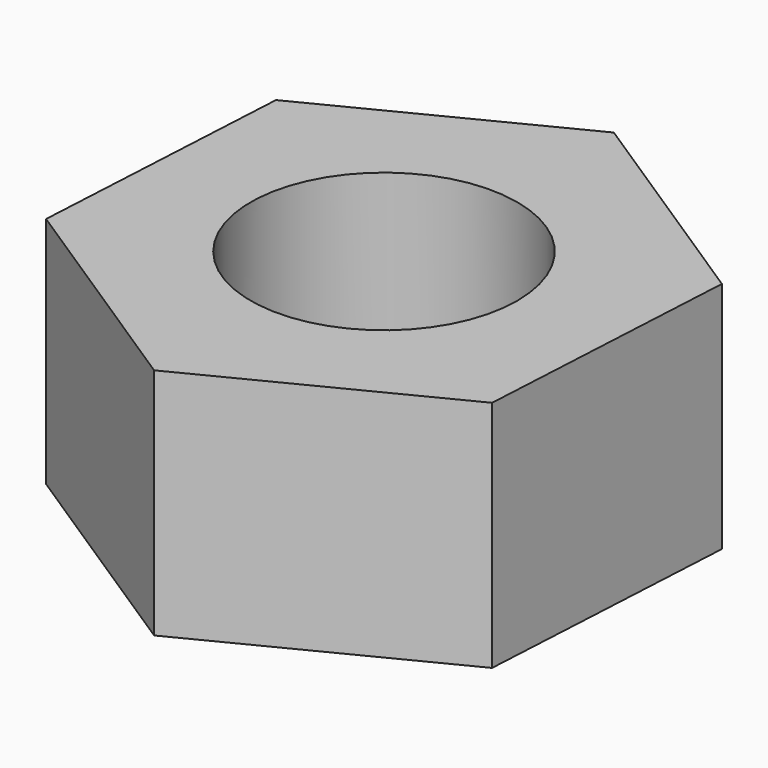
from build123d import *

# Parameters (mm, degrees)
F1_DEPTH = 5.55625
F2_R     = 3.175
F3_DEPTH = 5.55625


with BuildPart() as f1:
    # F0 (on Top) → F1 (new body)
    with BuildSketch(Plane.XY):
        Polygon((-0.346295, -6.406452), (5.375003, -3.503126), (5.721298, 2.903326), (0.346295, 6.406452), (-5.375003, 3.503126), (-5.721298, -2.903326), align=None)
    extrude(amount=-F1_DEPTH)

    # F2 (on face) → F3 (cut, through all)
    with BuildSketch(Plane.XY):
        Circle(F2_R)
    extrude(amount=-F3_DEPTH, mode=Mode.SUBTRACT)


solid = f1.part
